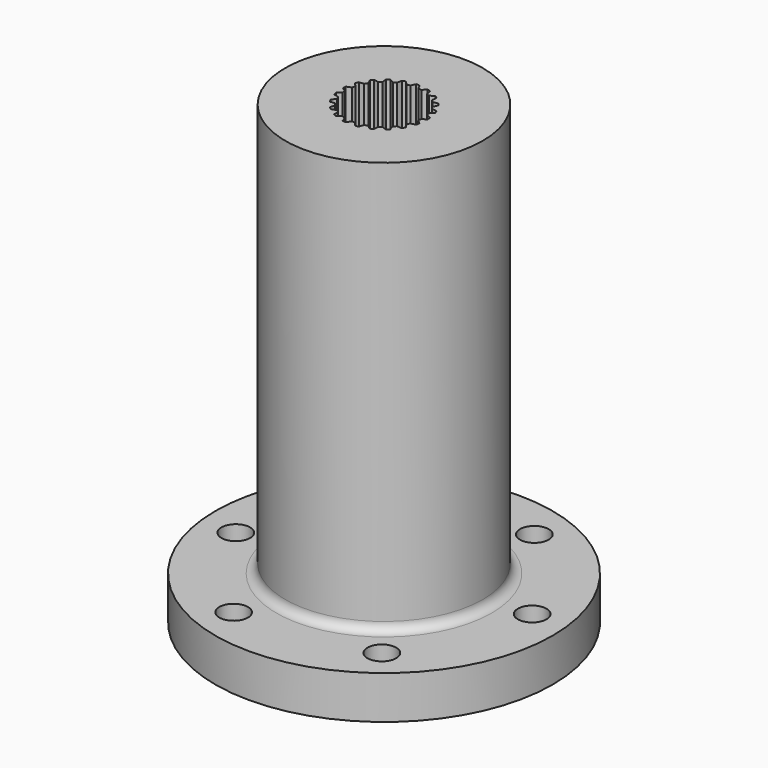
from build123d import *

# Parameters (mm, degrees)
F3_DEPTH = 241
F4_R     = 4
F5_DEPTH = 25
F6_R     = 2.5
F7_R     = 25
F8_DEPTH = 3
F9_SIZE2 = 0.5
F9_SIZE  = 0.5


with BuildPart() as f1:
    # F0 (on Front) → F1 (revolve)
    with BuildSketch(Plane.XZ):
        Polygon((127.2057911114, 60.7054449812), (99.7057911114, 60.7054449812), (99.7057911114, -69.2945550188), (127.7057911114, -69.2945550188), (127.7057911114, -66.2945550188), (146.7057911114, -66.2945550188), (146.7057911114, -54.2945550188), (127.2057911114, -54.2945550188), align=None)
    revolve(axis=Axis((99.7057911114, 0, -4.2945550188), (0, 0, -1)))

    # F2 (on face) → F3 (cut)
    with BuildSketch(Plane.XY.offset(60.7054449812)):
        with BuildLine():
            Line((97.6499410042, 10.4191113026), (96.6803838397, 11.4365996188))
            ThreePointArc((96.6803838397, 11.4365996188), (96.2188373981, 11.3044262925), (95.7630339461, 11.1536346513))
            Line((95.7630339461, 11.1536346513), (95.5351198002, 9.7667753539))
            Line((95.5351198002, 9.7667753539), (94.670189687, 9.3502469644))
            Line((94.670189687, 9.3502469644), (93.4437972808, 10.0367491383))
            ThreePointArc((93.4437972808, 10.0367491383), (93.0417148245, 9.7744047002), (92.6506080575, 9.4959618826))
            Line((92.6506080575, 9.4959618826), (92.8416034516, 8.1035379787))
            Line((92.8416034516, 8.1035379787), (92.1378736547, 7.4505721504))
            Line((92.1378736547, 7.4505721504), (90.7636163541, 7.7450894514))
            ThreePointArc((90.7636163541, 7.7450894514), (90.4567246738, 7.375884356), (90.1650661443, 6.9945312282))
            Line((90.1650661443, 6.9945312282), (90.7580002997, 5.7202656922))
            Line((90.7580002997, 5.7202656922), (90.2780002997, 4.8888813046))
            Line((90.2780002997, 4.8888813046), (88.8779868967, 4.7652445779))
            ThreePointArc((88.8779868967, 4.7652445779), (88.6935546649, 4.3219843183), (88.5272595133, 3.8716057792))
            Line((88.5272595133, 3.8716057792), (89.4694476281, 2.8287226961))
            Line((89.4694476281, 2.8287226961), (89.2558275315, 1.8927919004))
            Line((89.2558275315, 1.8927919004), (87.9544553607, 1.3619868118))
            ThreePointArc((87.9544553607, 1.3619868118), (87.9088701907, 0.8840570071), (87.8827144709, 0.4046711665))
            Line((87.8827144709, 0.4046711665), (89.0904389964, -0.3141647253))
            Line((89.0904389964, -0.3141647253), (89.1621798862, -1.2714803706))
            Line((89.1621798862, -1.2714803706), (88.0750815762, -2.1622894596))
            ThreePointArc((88.0750815762, -2.1622894596), (88.1723939103, -2.6324226487), (88.2887016728, -3.0982202553))
            Line((88.2887016728, -3.0982202553), (89.6546509849, -3.4291372321))
            Line((89.6546509849, -3.4291372321), (90.0053783682, -4.3227760308))
            Line((90.0053783682, -4.3227760308), (89.2291473743, -5.4944368234))
            ThreePointArc((89.2291473743, -5.4944368234), (89.4607105846, -5.915), (89.7091473743, -6.325821211))
            Line((89.7091473743, -6.325821211), (91.1119508823, -6.2394158473))
            Line((91.1119508823, -6.2394158473), (91.710501092, -6.9899740705))
            Line((91.710501092, -6.9899740705), (91.3141089445, -8.3383793635))
            ThreePointArc((91.3141089445, -8.3383793635), (91.6593476236, -8.6720036437), (92.0178387414, -8.9913451918))
            Line((92.0178387414, -8.9913451918), (93.3328511975, -8.4952949833))
            Line((93.3328511975, -8.4952949833), (94.1260404208, -9.0360822391))
            Line((94.1260404208, -9.0360822391), (94.1447083015, -10.4414203048))
            ThreePointArc((94.1447083015, -10.4414203048), (94.5729464776, -10.6584617073), (95.0096384147, -10.8579486944))
            Line((95.0096384147, -10.8579486944), (96.1200151912, -9.996329879))
            Line((96.1200151912, -9.996329879), (97.0373650848, -10.2792948465))
            Line((97.0373650848, -10.2792948465), (97.4694342706, -11.6166952306))
            ThreePointArc((97.4694342706, -11.6166952306), (97.9426211025, -11.6978686742), (98.4187118637, -11.7597758061))
            Line((98.4187118637, -11.7597758061), (99.2257911114, -10.6091469968))
            Line((99.2257911114, -10.6091469968), (100.1857911114, -10.6091469968))
            Line((100.1857911114, -10.6091469968), (100.992870359, -11.7597758061))
            ThreePointArc((100.992870359, -11.7597758061), (101.4689611203, -11.6978686742), (101.9421479522, -11.6166952306))
            Line((101.9421479522, -11.6166952306), (102.374217138, -10.2792948465))
            Line((102.374217138, -10.2792948465), (103.2915670316, -9.996329879))
            Line((103.2915670316, -9.996329879), (104.4019438081, -10.8579486944))
            ThreePointArc((104.4019438081, -10.8579486944), (104.8386357452, -10.6584617073), (105.2668739213, -10.4414203048))
            Line((105.2668739213, -10.4414203048), (105.285541802, -9.0360822391))
            Line((105.285541802, -9.0360822391), (106.0787310253, -8.4952949833))
            Line((106.0787310253, -8.4952949833), (107.3937434813, -8.9913451918))
            ThreePointArc((107.3937434813, -8.9913451918), (107.7522345992, -8.6720036437), (108.0974732783, -8.3383793635))
            Line((108.0974732783, -8.3383793635), (107.7010811307, -6.9899740705))
            Line((107.7010811307, -6.9899740705), (108.2996313405, -6.2394158473))
            Line((108.2996313405, -6.2394158473), (109.7024348485, -6.325821211))
            ThreePointArc((109.7024348485, -6.325821211), (109.9508716382, -5.915), (110.1824348485, -5.4944368234))
            Line((110.1824348485, -5.4944368234), (109.4062038545, -4.3227760308))
            Line((109.4062038545, -4.3227760308), (109.7569312379, -3.4291372321))
            Line((109.7569312379, -3.4291372321), (111.12288055, -3.0982202553))
            ThreePointArc((111.12288055, -3.0982202553), (111.2391883125, -2.6324226487), (111.3365006466, -2.1622894596))
            Line((111.3365006466, -2.1622894596), (110.2494023365, -1.2714803706))
            Line((110.2494023365, -1.2714803706), (110.3211432264, -0.3141647253))
            Line((110.3211432264, -0.3141647253), (111.5288677519, 0.4046711665))
            ThreePointArc((111.5288677519, 0.4046711665), (111.502712032, 0.8840570071), (111.457126862, 1.3619868118))
            Line((111.457126862, 1.3619868118), (110.1557546913, 1.8927919004))
            Line((110.1557546913, 1.8927919004), (109.9421345947, 2.8287226961))
            Line((109.9421345947, 2.8287226961), (110.8843227095, 3.8716057792))
            ThreePointArc((110.8843227095, 3.8716057792), (110.7180275579, 4.3219843183), (110.5335953261, 4.7652445779))
            Line((110.5335953261, 4.7652445779), (109.1335819231, 4.8888813046))
            Line((109.1335819231, 4.8888813046), (108.6535819231, 5.7202656922))
            Line((108.6535819231, 5.7202656922), (109.2465160785, 6.9945312282))
            ThreePointArc((109.2465160785, 6.9945312282), (108.954857549, 7.375884356), (108.6479658687, 7.7450894514))
            Line((108.6479658687, 7.7450894514), (107.2737085681, 7.4505721504))
            Line((107.2737085681, 7.4505721504), (106.5699787712, 8.1035379787))
            Line((106.5699787712, 8.1035379787), (106.7609741653, 9.4959618826))
            ThreePointArc((106.7609741653, 9.4959618826), (106.3698673983, 9.7744047002), (105.967784942, 10.0367491383))
            Line((105.967784942, 10.0367491383), (104.7413925358, 9.3502469644))
            Line((104.7413925358, 9.3502469644), (103.8764624226, 9.7667753539))
            Line((103.8764624226, 9.7667753539), (103.6485482767, 11.1536346513))
            ThreePointArc((103.6485482767, 11.1536346513), (103.1927448247, 11.3044262925), (102.7311983831, 11.4365996188))
            Line((102.7311983831, 11.4365996188), (101.7616412186, 10.4191113026))
            Line((101.7616412186, 10.4191113026), (100.8123636254, 10.5621918782))
            Line((100.8123636254, 10.5621918782), (100.1857911114, 11.8202580344))
            ThreePointArc((100.1857911114, 11.8202580344), (99.7057911114, 11.83), (99.2257911114, 11.8202580344))
            Line((99.2257911114, 11.8202580344), (98.5992185974, 10.5621918782))
            Line((98.5992185974, 10.5621918782), (97.6499410042, 10.4191113026))
        make_face()
    extrude(amount=-F3_DEPTH, mode=Mode.SUBTRACT)

    # F4 (on face) → F5 (cut)
    with BuildSketch(Plane.XY.offset(-54.2945550188)):
        with Locations((85.6221990078, -34.7548907847)):
            Circle(F4_R)
        with Locations((122.7626133849, -29.5741939306)):
            Circle(F4_R)
        with Locations((136.8462054885, 5.1806968541)):
            Circle(F4_R)
        with Locations((113.789383215, 34.7548907847)):
            Circle(F4_R)
        with Locations((76.6489688378, 29.5741939306)):
            Circle(F4_R)
        with Locations((62.5653767343, -5.1806968541)):
            Circle(F4_R)
    extrude(amount=-F5_DEPTH, mode=Mode.SUBTRACT)

    # F6
    f6_edges = [f1.edges().sort_by_distance(p)[0] for p in [
        (72.205791, 0, -54.294555),
    ]]
    fillet(f6_edges, radius=F6_R)

    # F7 (on face) → F8 (cut)
    with BuildSketch(Plane(origin=(0, 0, -69.2945550188), x_dir=(1, 0, 0), z_dir=(0, 0, -1))):
        with Locations((99.7057911114, 0)):
            Circle(F7_R)
        with BuildLine():
            Line((101.7616412186, -10.4191113026), (100.8123636254, -10.5621918782))
            Line((100.8123636254, -10.5621918782), (100.1857911114, -11.8202580344))
            ThreePointArc((100.1857911114, -11.8202580344), (99.7057911114, -11.83), (99.2257911114, -11.8202580344))
            Line((99.2257911114, -11.8202580344), (98.5992185974, -10.5621918782))
            Line((98.5992185974, -10.5621918782), (97.6499410042, -10.4191113026))
            Line((97.6499410042, -10.4191113026), (96.6803838397, -11.4365996188))
            ThreePointArc((96.6803838397, -11.4365996188), (96.2188373981, -11.3044262925), (95.7630339461, -11.1536346513))
            Line((95.7630339461, -11.1536346513), (95.5351198002, -9.7667753539))
            Line((95.5351198002, -9.7667753539), (94.670189687, -9.3502469644))
            Line((94.670189687, -9.3502469644), (93.4437972808, -10.0367491383))
            ThreePointArc((93.4437972808, -10.0367491383), (93.0417148245, -9.7744047002), (92.6506080575, -9.4959618826))
            Line((92.6506080575, -9.4959618826), (92.8416034516, -8.1035379787))
            Line((92.8416034516, -8.1035379787), (92.1378736547, -7.4505721504))
            Line((92.1378736547, -7.4505721504), (90.7636163541, -7.7450894514))
            ThreePointArc((90.7636163541, -7.7450894514), (90.4567246738, -7.375884356), (90.1650661443, -6.9945312282))
            Line((90.1650661443, -6.9945312282), (90.7580002997, -5.7202656922))
            Line((90.7580002997, -5.7202656922), (90.2780002997, -4.8888813046))
            Line((90.2780002997, -4.8888813046), (88.8779868967, -4.7652445779))
            ThreePointArc((88.8779868967, -4.7652445779), (88.6935546649, -4.3219843183), (88.5272595133, -3.8716057792))
            Line((88.5272595133, -3.8716057792), (89.4694476281, -2.8287226961))
            Line((89.4694476281, -2.8287226961), (89.2558275315, -1.8927919004))
            Line((89.2558275315, -1.8927919004), (87.9544553607, -1.3619868118))
            ThreePointArc((87.9544553607, -1.3619868118), (87.9088701907, -0.8840570071), (87.8827144709, -0.4046711665))
            Line((87.8827144709, -0.4046711665), (89.0904389964, 0.3141647253))
            Line((89.0904389964, 0.3141647253), (89.1621798862, 1.2714803706))
            Line((89.1621798862, 1.2714803706), (88.0750815762, 2.1622894596))
            ThreePointArc((88.0750815762, 2.1622894596), (88.1723939103, 2.6324226487), (88.2887016728, 3.0982202553))
            Line((88.2887016728, 3.0982202553), (89.6546509849, 3.4291372321))
            Line((89.6546509849, 3.4291372321), (90.0053783682, 4.3227760308))
            Line((90.0053783682, 4.3227760308), (89.2291473743, 5.4944368234))
            ThreePointArc((89.2291473743, 5.4944368234), (89.4607105846, 5.915), (89.7091473743, 6.325821211))
            Line((89.7091473743, 6.325821211), (91.1119508823, 6.2394158473))
            Line((91.1119508823, 6.2394158473), (91.710501092, 6.9899740705))
            Line((91.710501092, 6.9899740705), (91.3141089445, 8.3383793635))
            ThreePointArc((91.3141089445, 8.3383793635), (91.6593476236, 8.6720036437), (92.0178387414, 8.9913451918))
            Line((92.0178387414, 8.9913451918), (93.3328511975, 8.4952949833))
            Line((93.3328511975, 8.4952949833), (94.1260404208, 9.0360822391))
            Line((94.1260404208, 9.0360822391), (94.1447083015, 10.4414203048))
            ThreePointArc((94.1447083015, 10.4414203048), (94.5729464776, 10.6584617073), (95.0096384147, 10.8579486944))
            Line((95.0096384147, 10.8579486944), (96.1200151912, 9.996329879))
            Line((96.1200151912, 9.996329879), (97.0373650848, 10.2792948465))
            Line((97.0373650848, 10.2792948465), (97.4694342706, 11.6166952306))
            ThreePointArc((97.4694342706, 11.6166952306), (97.9426211025, 11.6978686742), (98.4187118637, 11.7597758061))
            Line((98.4187118637, 11.7597758061), (99.2257911114, 10.6091469968))
            Line((99.2257911114, 10.6091469968), (100.1857911114, 10.6091469968))
            Line((100.1857911114, 10.6091469968), (100.992870359, 11.7597758061))
            ThreePointArc((100.992870359, 11.7597758061), (101.4689611203, 11.6978686742), (101.9421479522, 11.6166952306))
            Line((101.9421479522, 11.6166952306), (102.374217138, 10.2792948465))
            Line((102.374217138, 10.2792948465), (103.2915670316, 9.996329879))
            Line((103.2915670316, 9.996329879), (104.4019438081, 10.8579486944))
            ThreePointArc((104.4019438081, 10.8579486944), (104.8386357452, 10.6584617073), (105.2668739213, 10.4414203048))
            Line((105.2668739213, 10.4414203048), (105.285541802, 9.0360822391))
            Line((105.285541802, 9.0360822391), (106.0787310253, 8.4952949833))
            Line((106.0787310253, 8.4952949833), (107.3937434813, 8.9913451918))
            ThreePointArc((107.3937434813, 8.9913451918), (107.7522345992, 8.6720036437), (108.0974732783, 8.3383793635))
            Line((108.0974732783, 8.3383793635), (107.7010811307, 6.9899740705))
            Line((107.7010811307, 6.9899740705), (108.2996313405, 6.2394158473))
            Line((108.2996313405, 6.2394158473), (109.7024348485, 6.325821211))
            ThreePointArc((109.7024348485, 6.325821211), (109.9508716382, 5.915), (110.1824348485, 5.4944368234))
            Line((110.1824348485, 5.4944368234), (109.4062038545, 4.3227760308))
            Line((109.4062038545, 4.3227760308), (109.7569312379, 3.4291372321))
            Line((109.7569312379, 3.4291372321), (111.12288055, 3.0982202553))
            ThreePointArc((111.12288055, 3.0982202553), (111.2391883125, 2.6324226487), (111.3365006466, 2.1622894596))
            Line((111.3365006466, 2.1622894596), (110.2494023365, 1.2714803706))
            Line((110.2494023365, 1.2714803706), (110.3211432264, 0.3141647253))
            Line((110.3211432264, 0.3141647253), (111.5288677519, -0.4046711665))
            ThreePointArc((111.5288677519, -0.4046711665), (111.502712032, -0.8840570071), (111.457126862, -1.3619868118))
            Line((111.457126862, -1.3619868118), (110.1557546913, -1.8927919004))
            Line((110.1557546913, -1.8927919004), (109.9421345947, -2.8287226961))
            Line((109.9421345947, -2.8287226961), (110.8843227095, -3.8716057792))
            ThreePointArc((110.8843227095, -3.8716057792), (110.7180275579, -4.3219843183), (110.5335953261, -4.7652445779))
            Line((110.5335953261, -4.7652445779), (109.1335819231, -4.8888813046))
            Line((109.1335819231, -4.8888813046), (108.6535819231, -5.7202656922))
            Line((108.6535819231, -5.7202656922), (109.2465160785, -6.9945312282))
            ThreePointArc((109.2465160785, -6.9945312282), (108.954857549, -7.375884356), (108.6479658687, -7.7450894514))
            Line((108.6479658687, -7.7450894514), (107.2737085681, -7.4505721504))
            Line((107.2737085681, -7.4505721504), (106.5699787712, -8.1035379787))
            Line((106.5699787712, -8.1035379787), (106.7609741653, -9.4959618826))
            ThreePointArc((106.7609741653, -9.4959618826), (106.3698673983, -9.7744047002), (105.967784942, -10.0367491383))
            Line((105.967784942, -10.0367491383), (104.7413925358, -9.3502469644))
            Line((104.7413925358, -9.3502469644), (103.8764624226, -9.7667753539))
            Line((103.8764624226, -9.7667753539), (103.6485482767, -11.1536346513))
            ThreePointArc((103.6485482767, -11.1536346513), (103.1927448247, -11.3044262925), (102.7311983831, -11.4365996188))
            Line((102.7311983831, -11.4365996188), (101.7616412186, -10.4191113026))
        make_face(mode=Mode.SUBTRACT)
    extrude(amount=-F8_DEPTH, mode=Mode.SUBTRACT)

    # F9
    f9_edges = [f1.edges().sort_by_distance(p)[0] for p in [
        (71.705791, 0, -69.294555),
    ]]
    chamfer(f9_edges, length=F9_SIZE, length2=F9_SIZE2)


solid = f1.part
